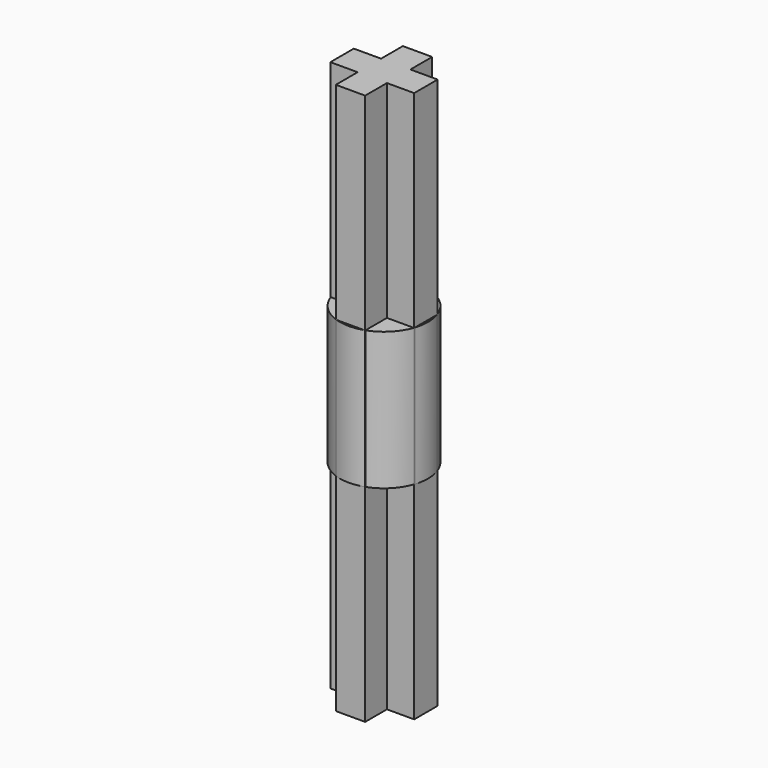
from build123d import *

# Parameters (mm, degrees)
F0_W     = 1.6891
F0_H     = 1.56845
F0_H_2   = 1.6891
F0_W_2   = 1.56845
F1_DEPTH = 15.875
F2_R     = 2.54
F3_DEPTH = 3.96875


with BuildPart() as f1:
    # F0 (on Top) → F1 (new body, symmetric)
    with BuildSketch(Plane.XY):
        with Locations((0, -1.628775)):
            Rectangle(F0_W, F0_H)
        Rectangle(F0_W, F0_H_2)
        with Locations((1.628775, 0)):
            Rectangle(F0_W_2, F0_H_2)
        with Locations((-1.628775, 0)):
            Rectangle(F0_W_2, F0_H_2)
        with Locations((0, 1.628775)):
            Rectangle(F0_W, F0_H)
    extrude(amount=F1_DEPTH, both=True)

    # F2 (on Top) → F3 (join, symmetric)
    with BuildSketch(Plane.XY):
        Circle(F2_R)
    extrude(amount=F3_DEPTH, both=True)


solid = f1.part
